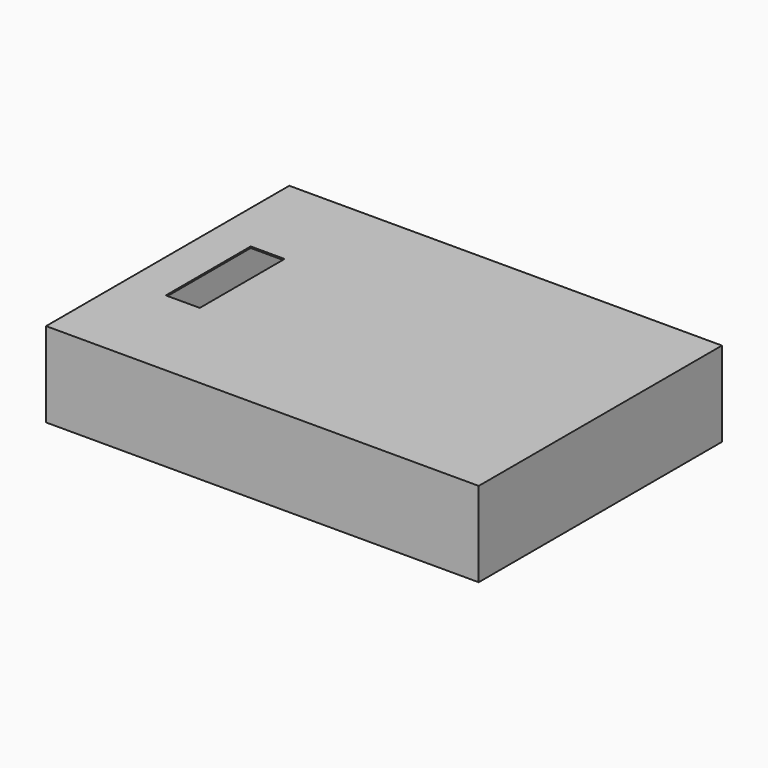
from build123d import *

# Parameters (mm, degrees)
F0_W     = 153
F0_H     = 107.5
F1_DEPTH = 30
F2_W     = 143
F2_H     = 97.5
F3_DEPTH = 29.5


with BuildPart() as f1:
    # F0 (on Top) → F1 (new body)
    with BuildSketch(Plane.XY):
        Rectangle(F0_W, F0_H)
        Polygon((-62.144428, -18.7512), (-62.144428, 18.7488), (-50.144428, 18.7488), (-50.144428, 6.394679), (-50.144428, 0.0036), (-50.144428, -18.7512), align=None, mode=Mode.SUBTRACT)
    extrude(amount=F1_DEPTH)

    # F2 (on Top) → F3 (cut)
    with BuildSketch(Plane.XY):
        Rectangle(F2_W, F2_H)
    extrude(amount=F3_DEPTH, mode=Mode.SUBTRACT)


solid = f1.part
